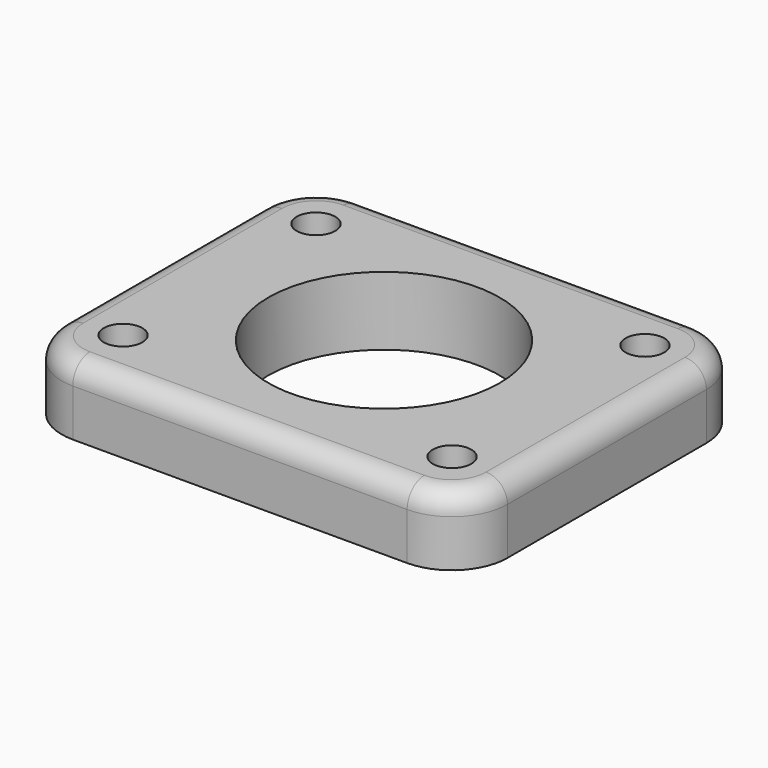
from build123d import *

# Parameters (mm, degrees)
F0_W     = 104
F0_H     = 84
F1_DEPTH = 16
F3_R     = 4.5
F4_DEPTH = 25
F5_R     = 27
F6_DEPTH = 25
F7_R     = 13
F8_R     = 5


with BuildPart() as f1:
    # F0 (on Top) → F1 (new body)
    with BuildSketch(Plane.XY):
        Rectangle(F0_W, F0_H)
    extrude(amount=-F1_DEPTH)

    # F3 (on face) → F4 (cut)
    with BuildSketch(Plane.XY):
        with Locations((38.36957, 28.125)):
            Circle(F3_R)
        with Locations((38.36957, -28.125)):
            Circle(F3_R)
        with Locations((-38.36957, 28.125)):
            Circle(F3_R)
        with Locations((-38.36957, -28.125)):
            Circle(F3_R)
    extrude(amount=-F4_DEPTH, mode=Mode.SUBTRACT)

    # F5 (on Top) → F6 (cut)
    with BuildSketch(Plane.XY):
        Circle(F5_R)
    extrude(amount=-F6_DEPTH, mode=Mode.SUBTRACT)

    # F7
    f7_edges = [f1.edges().sort_by_distance(p)[0] for p in [
        (-52, 42, -8),
        (-52, -42, -8),
        (52, -42, -8),
        (52, 42, -8),
    ]]
    fillet(f7_edges, radius=F7_R)

    # F8
    f8_edges = [f1.edges().sort_by_distance(p)[0] for p in [
        (-52, 0, 0),
    ]]
    fillet(f8_edges, radius=F8_R)


solid = f1.part
